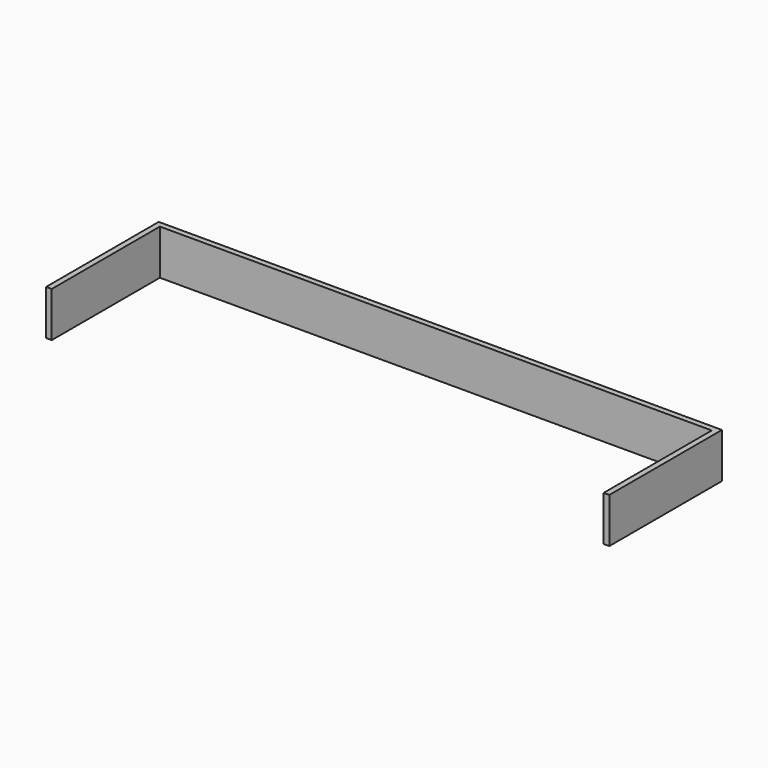
from build123d import *

# Parameters (mm, degrees)
F0_W     = 10
F0_H     = 10
F0_W_2   = 980
F0_H_2   = 240
F1_DEPTH = 80
F2_R     = 2.5
F3_DEPTH = 30


with BuildPart() as f1:
    # F0 (on Top) → F1 (new body)
    with BuildSketch(Plane.XY):
        with Locations((-491.420456, 64.085509)):
            Rectangle(F0_W, F0_H)
        with Locations((3.579544, 64.085509)):
            Rectangle(F0_W_2, F0_H)
        with Locations((-491.420456, -60.914491)):
            Rectangle(F0_W, F0_H_2)
        with Locations((498.579544, 64.085509)):
            Rectangle(F0_W, F0_H)
        with Locations((498.579544, -60.914491)):
            Rectangle(F0_W, F0_H_2)
    extrude(amount=F1_DEPTH)

    # F2 (on face) → F3 (cut)
    with BuildSketch(Plane(origin=(0, 0, 0), x_dir=(1, 0, 0), z_dir=(0, 0, -1))):
        with Locations((-491.420456, 153.839529)):
            Circle(F2_R)
        with Locations((-491.420456, 52.106358)):
            Circle(F2_R)
        with Locations((-491.420456, -64.085509)):
            Circle(F2_R)
        with Locations((-269.96702, -64.085509)):
            Circle(F2_R)
        with Locations((0, -64.085509)):
            Circle(F2_R)
        with Locations((269.96702, -64.085509)):
            Circle(F2_R)
        with Locations((498.579544, -64.085509)):
            Circle(F2_R)
        with Locations((498.579544, 52.106358)):
            Circle(F2_R)
        with Locations((498.579544, 153.839529)):
            Circle(F2_R)
    extrude(amount=-F3_DEPTH, mode=Mode.SUBTRACT)


solid = f1.part
